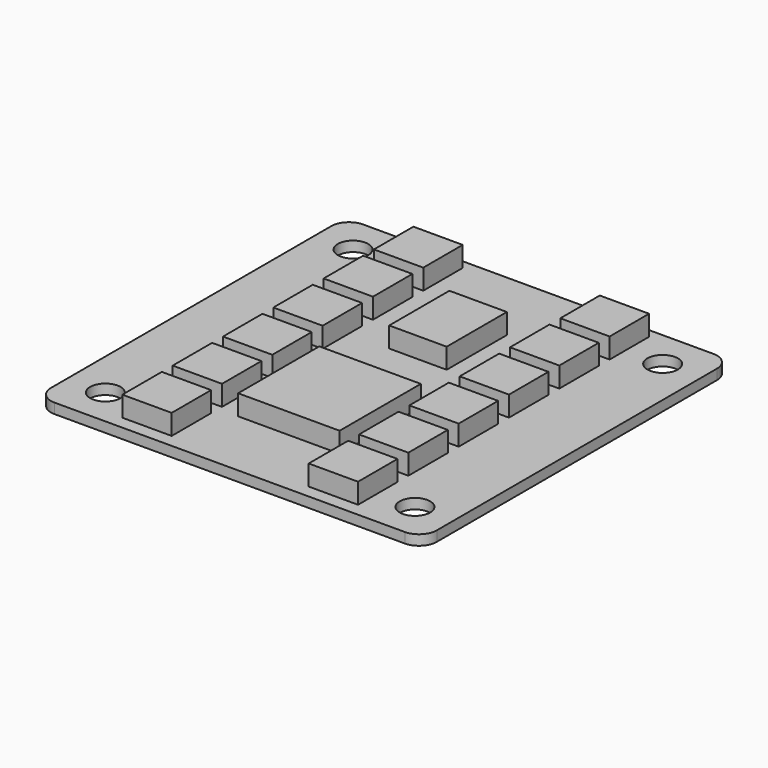
from build123d import *

# Parameters (mm, degrees)
SKETCH_R      = 1.5
PAD_DEPTH     = 1
SKETCH001_W   = 10
SKETCH001_H   = 10
SKETCH001_W_2 = 4.857736
SKETCH001_H_2 = 4.857736
SKETCH001_W_3 = 5.662197
SKETCH001_H_3 = 7.409003
SKETCH001_H_4 = 4.857737
PAD001_DEPTH  = 2


with BuildPart() as part:
    # Sketch → Pad (new body)
    with BuildSketch(Plane.XY):
        with BuildLine():
            Line((-17.25, 19), (17.25, 19))
            ThreePointArc((19, 17.25), (18.487437, 18.487437), (17.25, 19))
            Line((19, 17.25), (19, -17.25))
            ThreePointArc((17.25, -19), (18.487437, -18.487437), (19, -17.25))
            Line((17.25, -19), (-17.25, -19))
            ThreePointArc((-19, -17.25), (-18.487437, -18.487437), (-17.25, -19))
            Line((-19, -17.25), (-19, 17.25))
            ThreePointArc((-17.25, 19), (-18.487437, 18.487437), (-19, 17.25))
        make_face()
        with Locations((15.25, 15.25)):
            Circle(SKETCH_R, mode=Mode.SUBTRACT)
        with Locations((-15.25, -15.25)):
            Circle(SKETCH_R, mode=Mode.SUBTRACT)
        with Locations((-15.25, 15.25)):
            Circle(SKETCH_R, mode=Mode.SUBTRACT)
        with Locations((15.25, -15.25)):
            Circle(SKETCH_R, mode=Mode.SUBTRACT)
    extrude(amount=PAD_DEPTH)

    # Sketch001 (on Face14 of Pad) → Pad001 (join)
    with BuildSketch(Plane.XY.offset(1)):
        with Locations((0.198833, -6.963992)):
            Rectangle(SKETCH001_W, SKETCH001_H)
        with Locations((-9.179753, 15.701071)):
            Rectangle(SKETCH001_W_2, SKETCH001_H_2)
        with Locations((0.053276, 7.817709)):
            Rectangle(SKETCH001_W_3, SKETCH001_H_3)
        with Locations((-9.179753, 9.504914)):
            Rectangle(SKETCH001_W_2, SKETCH001_H_4)
        with Locations((-9.179753, 3.308758)):
            Rectangle(SKETCH001_W_2, SKETCH001_H_4)
        with Locations((-9.179753, -2.887397)):
            Rectangle(SKETCH001_W_2, SKETCH001_H_4)
        with Locations((-9.179753, -9.083554)):
            Rectangle(SKETCH001_W_2, SKETCH001_H_2)
        with Locations((-9.179753, -15.27971)):
            Rectangle(SKETCH001_W_2, SKETCH001_H_2)
        with Locations((9.179753, 15.701071)):
            Rectangle(SKETCH001_W_2, SKETCH001_H_2)
        with Locations((9.179753, 9.504914)):
            Rectangle(SKETCH001_W_2, SKETCH001_H_4)
        with Locations((9.179753, 3.308758)):
            Rectangle(SKETCH001_W_2, SKETCH001_H_4)
        with Locations((9.179753, -2.887397)):
            Rectangle(SKETCH001_W_2, SKETCH001_H_4)
        with Locations((9.179753, -9.083554)):
            Rectangle(SKETCH001_W_2, SKETCH001_H_2)
        with Locations((9.179753, -15.27971)):
            Rectangle(SKETCH001_W_2, SKETCH001_H_2)
    extrude(amount=PAD001_DEPTH)


solid = part.part
